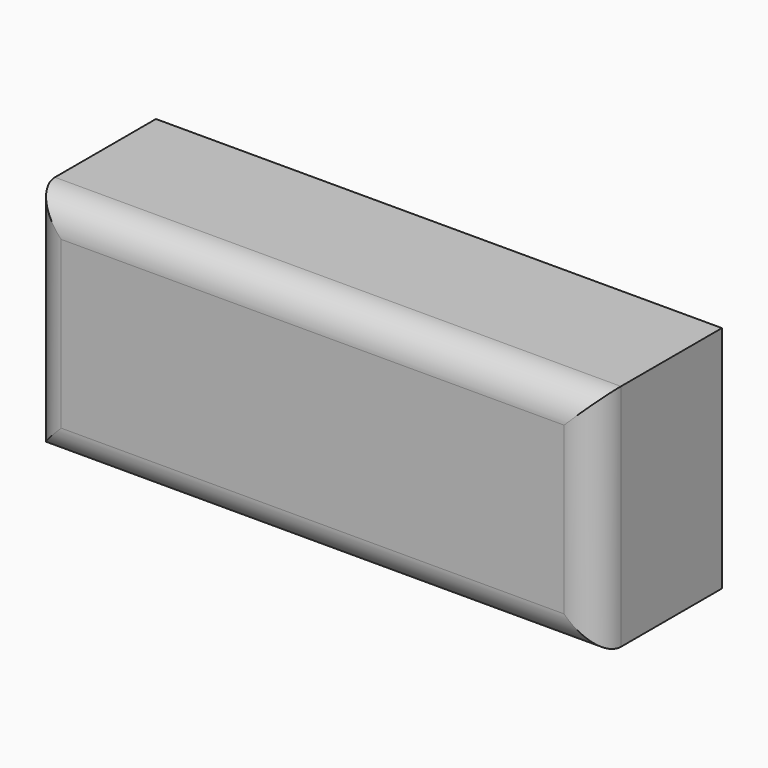
from build123d import *

# Parameters (mm, degrees)
F1_DEPTH = 25
F2_R     = 5


with BuildPart() as f1:
    # F0 (on Front) → F1 (new body)
    with BuildSketch(Plane.XZ):
        Polygon((-42.026684, 36.323063), (-42.026684, 0), (47.02986, 0), (47.630243, 0), (47.630243, 36.323063), align=None)
    extrude(amount=F1_DEPTH)

    # F2
    f2_edges = [f1.edges().sort_by_distance(p)[0] for p in [
        (-42.026684, -25, 18.161532),
        (2.80178, -25, 36.323063),
        (2.80178, -25, 0),
        (47.630243, -25, 18.161532),
    ]]
    fillet(f2_edges, radius=F2_R)


solid = f1.part
